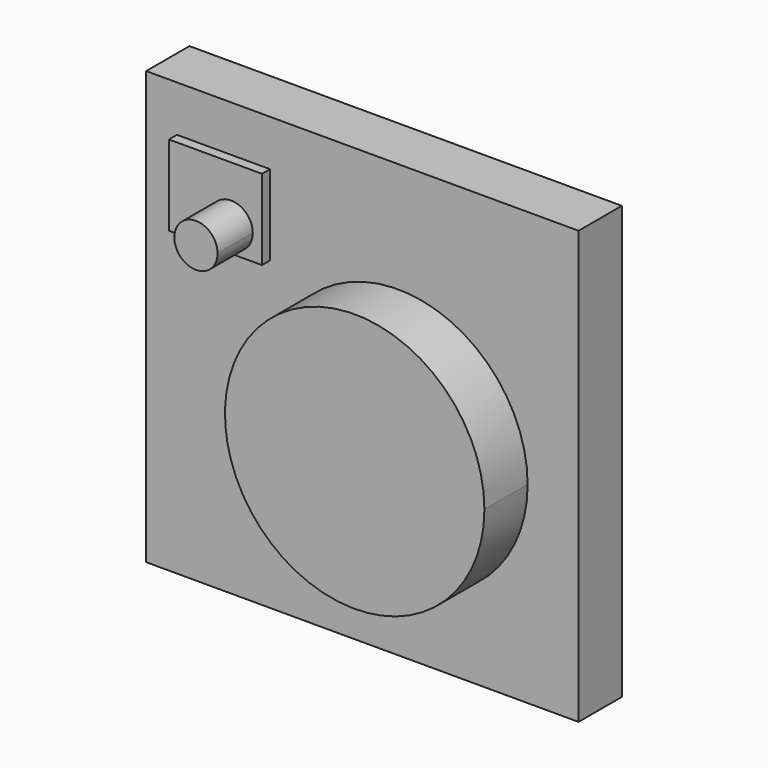
from build123d import *

# Parameters (mm, degrees)
F0_W     = 200
F0_H     = 200
F1_DEPTH = 25
F3_DEPTH = 25
F4_W     = 43.039545
F4_H     = 37.170328
F5_DEPTH = 4.644


with BuildPart() as f1:
    # F0 (on Front) → F1 (new body)
    with BuildSketch(Plane.XZ):
        with Locations((-100, -100)):
            Rectangle(F0_W, F0_H)
    extrude(amount=F1_DEPTH)

    # F2 (on face) → F3 (join)
    with BuildSketch(Plane.XZ.offset(25)):
        with BuildLine():
            ThreePointArc((-149.452707, -53.410247), (-147.62081, -50.344453), (-146.983063, -46.830449))
            ThreePointArc((-146.983063, -46.830449), (-166.345315, -43.316446), (-149.452707, -53.410247))
        make_face()
        with BuildLine():
            ThreePointArc((-23.562095, -110.983481), (-62.478073, -54.809964), (-128.744229, -71.504692))
            ThreePointArc((-128.744229, -71.504692), (-104.646117, -167.156998), (-23.562095, -110.983481))
        make_face()
    extrude(amount=F3_DEPTH)

    # F4 (on face) → F5 (join)
    with BuildSketch(Plane.XZ.offset(25)):
        with Locations((-164.246566, -39.92312)):
            Rectangle(F4_W, F4_H)
    extrude(amount=F5_DEPTH)


solid = f1.part
